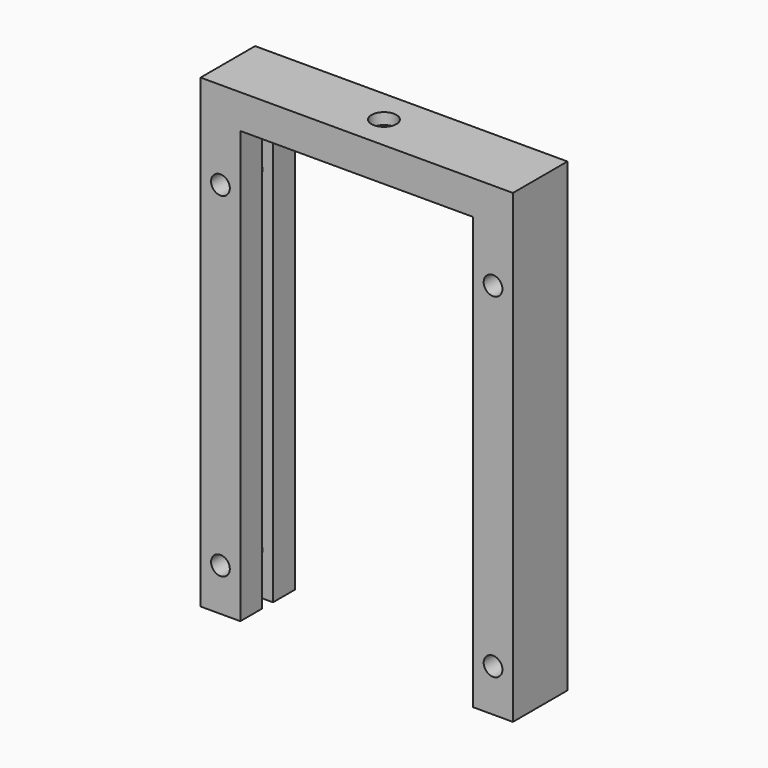
from build123d import *

# Parameters (mm, degrees)
F0_W      = 55
F0_H      = 12
F1_DEPTH  = 6
F2_D      = 4.4
F4_DEPTH  = 76
F6_D      = 3.3
F7_D      = 3.3
F8_D      = 3.3
F9_D      = 3.3
F10_R     = 3.6
F10_R_2   = 2.2
F11_DEPTH = 4


with BuildPart() as f1:
    # F0 (on Top) → F1 (new body)
    with BuildSketch(Plane.XY):
        Rectangle(F0_W, F0_H)
    extrude(amount=-F1_DEPTH)

    # F2 (through all)
    with Locations(Plane.XY):
        with Locations((0, 0)):
            Hole(F2_D / 2)

    # F3 (on face) → F4 (join)
    with BuildSketch(Plane(origin=(0, 0, -6), x_dir=(1, 0, 0), z_dir=(0, 0, -1))):
        Polygon((-20.5, 6), (-27.5, 6), (-27.5, -6), (-20.5, -6), (-20.5, -1.2), (-25.5, -1.2), (-25.5, 1.2), (-20.5, 1.2), align=None)
        Polygon((27.5, 6), (20.5, 6), (20.5, 1.2), (25.5, 1.2), (25.5, -1.2), (20.5, -1.2), (20.5, -6), (27.5, -6), align=None)
    extrude(amount=F4_DEPTH)

    # F6 (through all)
    with Locations(Plane(origin=(0, 6, 0), x_dir=(-1, 0, 0), z_dir=(0, 1, 0))):
        with Locations((24, -74.5)):
            Hole(F6_D / 2)

    # F7 (through all)
    with Locations(Plane(origin=(0, 6, 0), x_dir=(-1, 0, 0), z_dir=(0, 1, 0))):
        with Locations((-24, -74.5)):
            Hole(F7_D / 2)

    # F8 (through all)
    with Locations(Plane(origin=(0, 6, 0), x_dir=(-1, 0, 0), z_dir=(0, 1, 0))):
        with Locations((24, -15.5)):
            Hole(F8_D / 2)

    # F9 (through all)
    with Locations(Plane(origin=(0, 6, 0), x_dir=(-1, 0, 0), z_dir=(0, 1, 0))):
        with Locations((-24, -15.5)):
            Hole(F9_D / 2)

    # F10 (on face) → F11 (cut)
    with BuildSketch(Plane(origin=(0, 0, -6), x_dir=(1, 0, 0), z_dir=(0, 0, -1))):
        Circle(F10_R)
        Circle(F10_R_2, mode=Mode.SUBTRACT)
    extrude(amount=-F11_DEPTH, mode=Mode.SUBTRACT)


solid = f1.part
